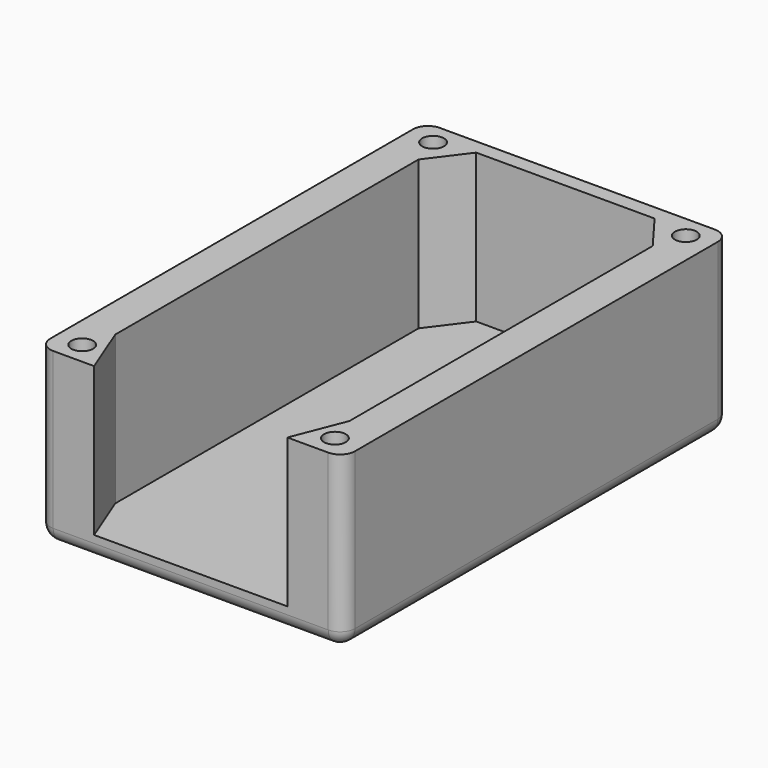
from build123d import *

# Parameters (mm, degrees)
SKETCH_W     = 41
SKETCH_H     = 65
PAD_DEPTH    = 23
SKETCH001_R  = 1.464693
POCKET_DEPTH = 20
FILLET_R     = 2


with BuildPart() as part:
    # Sketch → Pad (new body)
    with BuildSketch(Plane.XY):
        Rectangle(SKETCH_W, SKETCH_H)
    extrude(amount=PAD_DEPTH)

    # Sketch001 → Pocket (cut)
    with BuildSketch(Plane.XY.offset(23)):
        with Locations((17, 29.5)):
            Circle(SKETCH001_R)
        with Locations((-17, 29.5)):
            Circle(SKETCH001_R)
        with Locations((17, -29.5)):
            Circle(SKETCH001_R)
        with Locations((-17, -29.5)):
            Circle(SKETCH001_R)
        Polygon((-12, 30.5), (12, 30.5), (15.75, 25.5), (15.75, -25.5), (13, -32.5), (-13, -32.5), (-15.75, -25.5), (-15.75, 25.5), align=None)
    extrude(amount=-POCKET_DEPTH, mode=Mode.SUBTRACT)

    # Fillet
    fillet_edges = [part.edges().sort_by_distance(p)[0] for p in [
        (-20.5, -32.5, 11.5),
        (0, -32.5, 0),
        (20.5, -32.5, 11.5),
        (20.5, 0, 0),
        (20.5, 32.5, 11.5),
        (0, 32.5, 0),
        (-20.5, 32.5, 11.5),
        (-20.5, 0, 0),
    ]]
    fillet(fillet_edges, radius=FILLET_R)


solid = part.part
